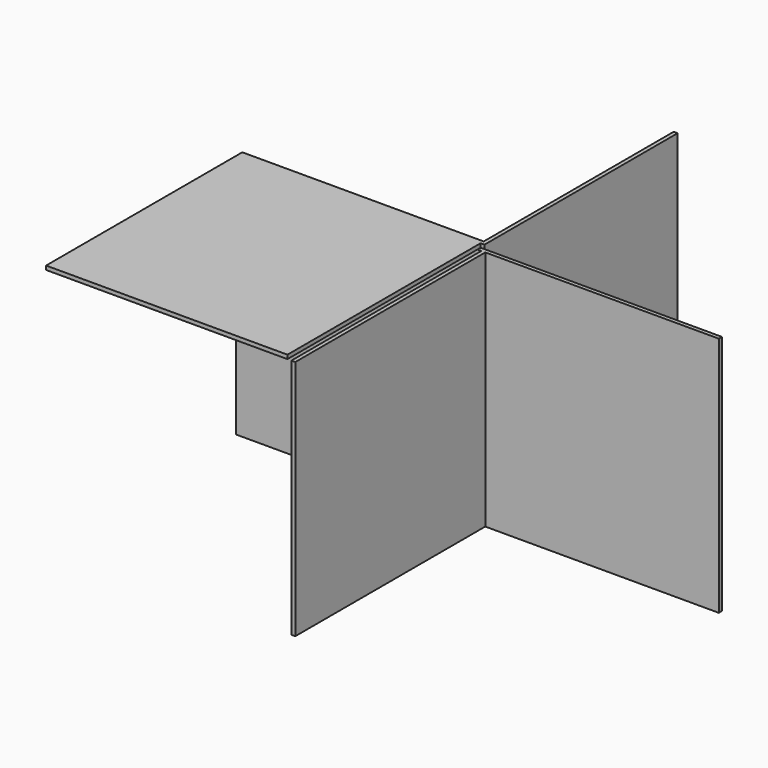
from build123d import *

# Parameters (mm, degrees)
F0_W      = 97.79
F0_H      = 97.79
F1_DEPTH  = 1.5875
F2_W      = 97.79
F2_H      = 96.2025
F2_H_2    = 1.5875
F3_DEPTH  = 1.5875
F4_W      = 97.79
F4_H      = 99.3775
F5_DEPTH  = 1.5875
F6_W      = 96.2025
F6_H      = 99.3775
F6_W_2    = 1.5875
F7_DEPTH  = 1.5875
F8_R      = 4
F9_DEPTH  = 25.4
F10_W     = 96.2025
F10_H     = 97.79
F10_W_2   = 1.5875
F11_DEPTH = 1.5875
F12_W     = 97.79
F12_H     = 97.79
F13_DEPTH = 1.5875


with BuildPart() as f1:
    # F0 (on Front) → F1 (new body)
    with BuildSketch(Plane.XZ):
        Rectangle(F0_W, F0_H)
    extrude(amount=F1_DEPTH)

    # F2 (on face) → F3 (join)
    with BuildSketch(Plane.XY.offset(48.895)):
        with Locations((0, -49.68875)):
            Rectangle(F2_W, F2_H)
        with Locations((0, -0.79375)):
            Rectangle(F2_W, F2_H_2)
    extrude(amount=F3_DEPTH)

    # F4 (on face) → F5 (join)
    with BuildSketch(Plane(origin=(0, 0, 0), x_dir=(-1, 0, 0), z_dir=(0, 1, 0))):
        with Locations((0, 0.79375)):
            Rectangle(F4_W, F4_H)
    extrude(amount=F5_DEPTH)

    # F6 (on face) → F7 (join)
    with BuildSketch(Plane.YZ.offset(48.895)):
        with Locations((49.68875, 0.79375)):
            Rectangle(F6_W, F6_H)
        with Locations((0.79375, 0.79375)):
            Rectangle(F6_W_2, F6_H)
    extrude(amount=F7_DEPTH)

    # F8 (on face) → F9 (cut)
    with BuildSketch(Plane.YZ.offset(50.4825)):
        with Locations((48.895, 0)):
            Circle(F8_R)
    extrude(amount=-F9_DEPTH, mode=Mode.SUBTRACT)

    # F10 (on face) → F11 (join)
    with BuildSketch(Plane.XZ):
        with Locations((98.58375, 0)):
            Rectangle(F10_W, F10_H)
        with Locations((49.68875, 0)):
            Rectangle(F10_W_2, F10_H)
    extrude(amount=F11_DEPTH)

    # F12 (on face) → F13 (join)
    with BuildSketch(Plane.YZ.offset(50.4825)):
        with Locations((-48.895, 0)):
            Rectangle(F12_W, F12_H)
    extrude(amount=F13_DEPTH)


solid = f1.part
